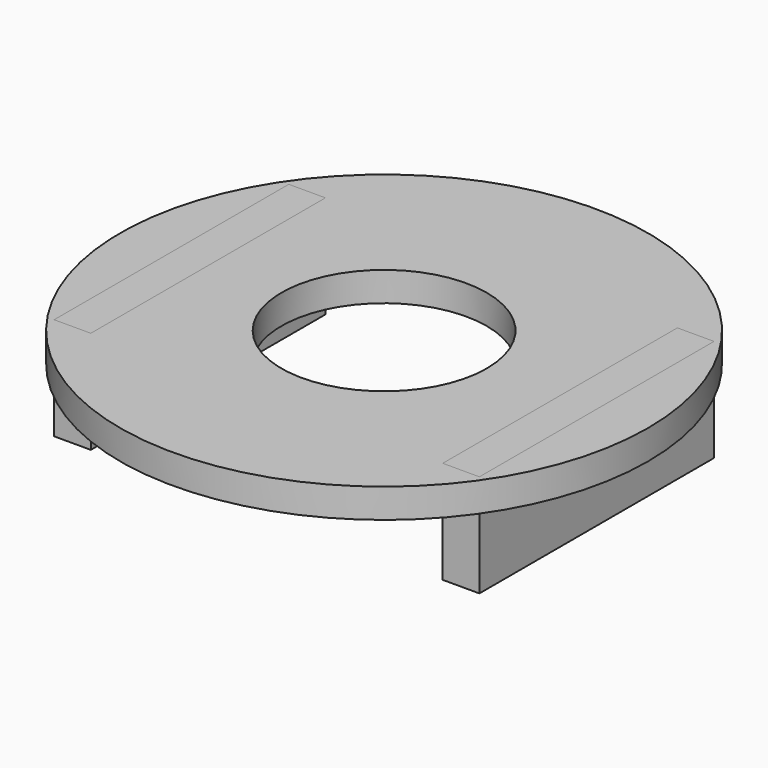
from build123d import *

# Parameters (mm, degrees)
F0_R          = 45.72
F0_R_2        = 17.78
F1_DEPTH      = 5.08
F2_W          = 6.35
F2_H          = 50.8
F3_DEPTH      = 12.7
F3_DEPTH_BACK = 5.08


with BuildPart() as f1:
    # F0 (on Top) → F1 (new body)
    with BuildSketch(Plane.XY):
        Circle(F0_R)
        Polygon((-36.83, -25.4), (-36.83, 0), (-36.83, 25.4), (-30.48, 25.4), (-30.48, 0), (-30.48, -25.4), align=None, mode=Mode.SUBTRACT)
        Circle(F0_R_2, mode=Mode.SUBTRACT)
        Polygon((30.48, -25.4), (30.48, 0), (30.48, 25.4), (36.83, 25.4), (36.83, 0), (36.83, -25.4), align=None, mode=Mode.SUBTRACT)
    extrude(amount=F1_DEPTH)


with BuildPart() as f3:
    # F2 (on face) → F3 (new body, two sides)
    with BuildSketch(Plane(origin=(0, 0, 0), x_dir=(1, 0, 0), z_dir=(0, 0, -1))) as f3_sk:
        with Locations((33.655, 0)):
            Rectangle(F2_W, F2_H)
    extrude(amount=F3_DEPTH)
    extrude(f3_sk.sketch, amount=-F3_DEPTH_BACK)


with BuildPart() as f3b:
    # F2 (on face) → F3, piece 2 (new body, two sides)
    with BuildSketch(Plane(origin=(0, 0, 0), x_dir=(1, 0, 0), z_dir=(0, 0, -1))) as f3_2_sk:
        with Locations((-33.655, 0)):
            Rectangle(F2_W, F2_H)
    extrude(amount=F3_DEPTH)
    extrude(f3_2_sk.sketch, amount=-F3_DEPTH_BACK)


solid = Compound([f1.part, f3.part, f3b.part])
